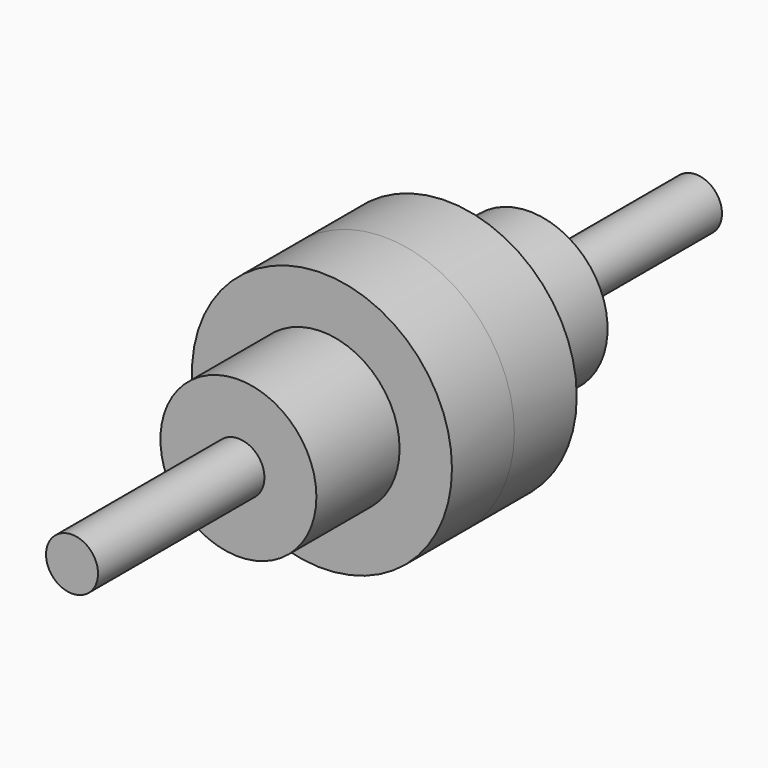
from build123d import *

# Parameters (mm, degrees)
F0_R      = 50
F0_R_2    = 30
F0_R_3    = 10
F1_DEPTH  = 30
F1_FACE_R = 50
F2_DEPTH  = 30
F4_R      = 30
F5_DEPTH  = 40
F3_R      = 30
F6_DEPTH  = 40
F7_R      = 10
F8_DEPTH  = 80
F9_R      = 10
F10_DEPTH = 80


with BuildPart() as f1:
    # F0 (on Front) → F1 (new body)
    with BuildSketch(Plane.XZ):
        with Locations((0.143902, -0.143903)):
            Circle(F0_R)
        Circle(F0_R_2, mode=Mode.SUBTRACT)
        Circle(F0_R_2)
        with Locations((0.143902, -0.143903)):
            Circle(F0_R_3, mode=Mode.SUBTRACT)
        with Locations((0.143902, -0.143903)):
            Circle(F0_R_3)
    extrude(amount=-F1_DEPTH)

    # F1_face (on face) → F2 (join)
    with BuildSketch(Plane(origin=(0.143902, 0, -0.143903), x_dir=(1, 0, 0), z_dir=(0, -1, 0))):
        Circle(F1_FACE_R)
    extrude(amount=F2_DEPTH)

    # F4 (on face) → F5 (join)
    with BuildSketch(Plane(origin=(0, 30, 0), x_dir=(-1, 0, 0), z_dir=(0, 1, 0))):
        Circle(F4_R)
    extrude(amount=F5_DEPTH)

    # F3 (on face) → F6 (join)
    with BuildSketch(Plane.XZ.offset(30)):
        Circle(F3_R)
    extrude(amount=F6_DEPTH)

    # F7 (on face) → F8 (join)
    with BuildSketch(Plane.XZ.offset(70)):
        Circle(F7_R)
    extrude(amount=F8_DEPTH)

    # F9 (on face) → F10 (join)
    with BuildSketch(Plane(origin=(0, 70, 0), x_dir=(-1, 0, 0), z_dir=(0, 1, 0))):
        Circle(F9_R)
    extrude(amount=F10_DEPTH)


solid = f1.part
